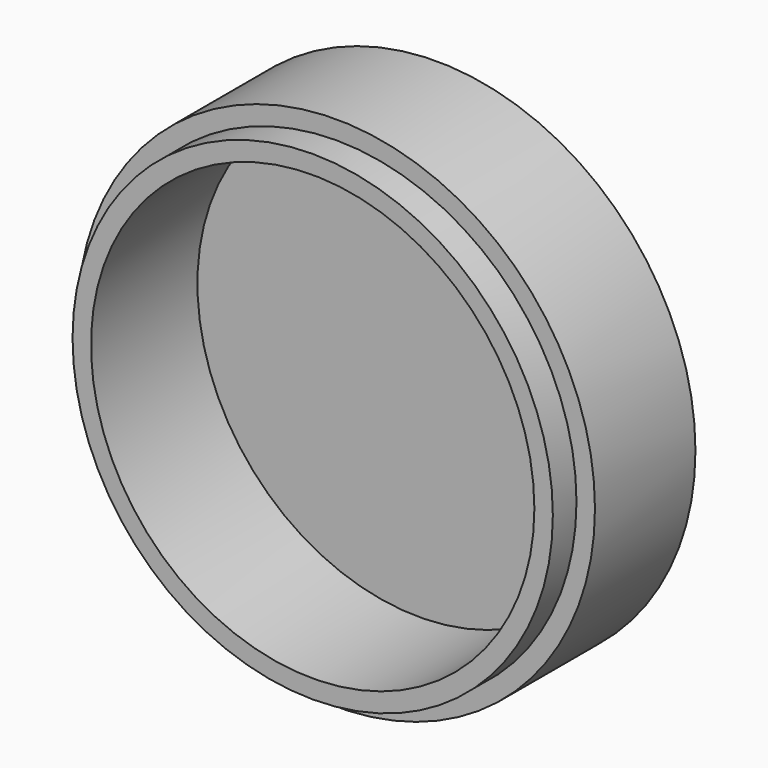
from build123d import *

# Parameters (mm, degrees)
F0_R     = 35
F1_DEPTH = 21
F2_R     = 30
F3_DEPTH = 18
F4_R     = 35
F4_R_2   = 32.5
F5_DEPTH = 4


with BuildPart() as f1:
    # F0 (on Front) → F1 (new body)
    with BuildSketch(Plane.XZ):
        Circle(F0_R)
    extrude(amount=F1_DEPTH)

    # F2 (on face) → F3 (cut)
    with BuildSketch(Plane.XZ.offset(21)):
        Circle(F2_R)
    extrude(amount=-F3_DEPTH, mode=Mode.SUBTRACT)

    # F4 (on face) → F5 (cut)
    with BuildSketch(Plane.XZ.offset(21)):
        Circle(F4_R)
        Circle(F4_R_2, mode=Mode.SUBTRACT)
    extrude(amount=-F5_DEPTH, mode=Mode.SUBTRACT)


solid = f1.part
